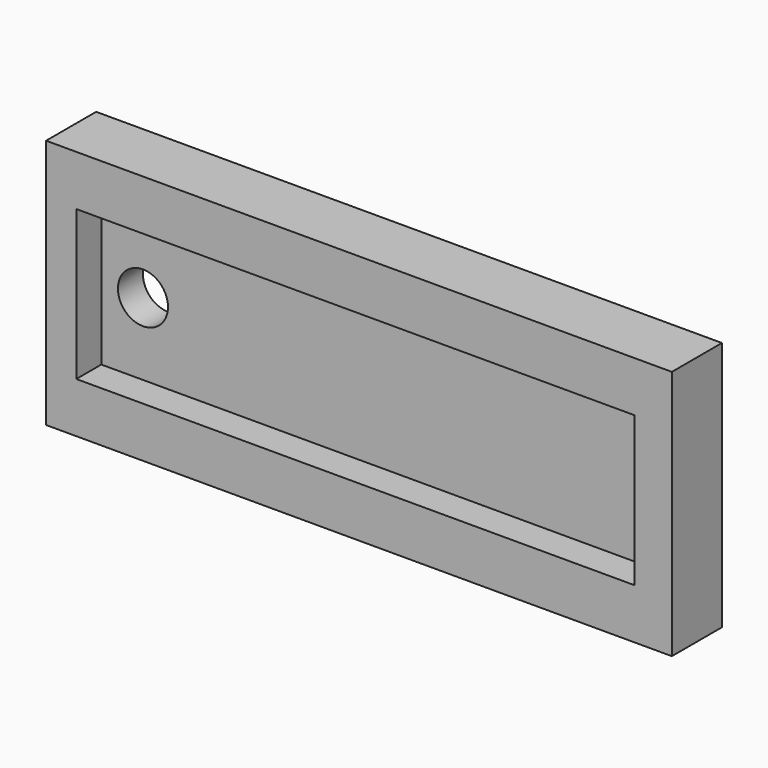
from build123d import *

# Parameters (mm, degrees)
F0_W     = 63.5
F0_H     = 25.4
F0_W_2   = 56.649408
F0_H_2   = 15.184378
F1_DEPTH = 6.35
F2_DEPTH = 3.175
F3_R     = 2.54
F4_DEPTH = 25.4


with BuildPart() as f1:
    # F0 (on Front) → F1 (new body)
    with BuildSketch(Plane.XZ):
        with Locations((31.75, 12.7)):
            Rectangle(F0_W, F0_H)
        with Locations((31.390783, 12.702317)):
            Rectangle(F0_W_2, F0_H_2, mode=Mode.SUBTRACT)
    extrude(amount=F1_DEPTH)

    # F0 (on Front) → F2 (join)
    with BuildSketch(Plane.XZ):
        with Locations((31.390783, 12.702317)):
            Rectangle(F0_W_2, F0_H_2)
    extrude(amount=F2_DEPTH)

    # F3 (on Front) → F4 (cut)
    with BuildSketch(Plane.XZ):
        with Locations((7.289108, 12.447039)):
            Circle(F3_R)
    extrude(amount=F4_DEPTH, mode=Mode.SUBTRACT)


solid = f1.part
